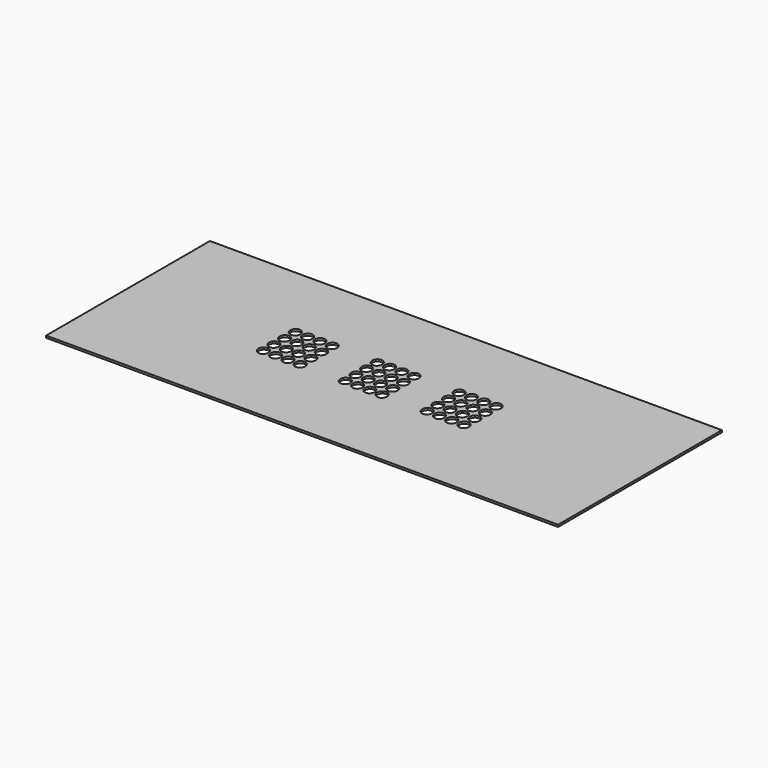
from build123d import *

# Parameters (mm, degrees)
F0_W     = 50
F0_H     = 20
F1_DEPTH = 0.2


with BuildPart() as f1:
    # F0 (on Top) → F1 (new body)
    with BuildSketch(Plane.XY):
        with Locations((25, -10)):
            Rectangle(F0_W, F0_H)
        with BuildLine():
            add(Edge.make_bspline(
                [(14.962654, -11.410392), (14.601403, -10.528918), (14.088047, -11.254067), (13.574692, -11.979215), (14.449298, -12.135541), (15.323905, -12.291867), (14.962654, -11.410392)],
                knots=[4.712389, 4.712389, 4.712389, 6.806784, 6.806784, 8.901179, 8.901179, 10.995574, 10.995574, 10.995574], degree=2, weights=[1, 0.5, 1, 0.5, 1, 0.5, 1]))
        make_face(mode=Mode.SUBTRACT)
        with BuildLine():
            add(Edge.make_bspline(
                [(16.162654, -11.410392), (15.801403, -10.528918), (15.288047, -11.254067), (14.774692, -11.979215), (15.649298, -12.135541), (16.523905, -12.291867), (16.162654, -11.410392)],
                knots=[4.712389, 4.712389, 4.712389, 6.806784, 6.806784, 8.901179, 8.901179, 10.995574, 10.995574, 10.995574], degree=2, weights=[1, 0.5, 1, 0.5, 1, 0.5, 1]))
        make_face(mode=Mode.SUBTRACT)
        with BuildLine():
            add(Edge.make_bspline(
                [(17.362654, -11.410392), (17.001403, -10.528918), (16.488047, -11.254067), (15.974692, -11.979215), (16.849298, -12.135541), (17.723905, -12.291867), (17.362654, -11.410392)],
                knots=[4.712389, 4.712389, 4.712389, 6.806784, 6.806784, 8.901179, 8.901179, 10.995574, 10.995574, 10.995574], degree=2, weights=[1, 0.5, 1, 0.5, 1, 0.5, 1]))
        make_face(mode=Mode.SUBTRACT)
        with BuildLine():
            add(Edge.make_bspline(
                [(18.562654, -11.410392), (18.201403, -10.528918), (17.688047, -11.254067), (17.174692, -11.979215), (18.049298, -12.135541), (18.923905, -12.291867), (18.562654, -11.410392)],
                knots=[4.712389, 4.712389, 4.712389, 6.806784, 6.806784, 8.901179, 8.901179, 10.995574, 10.995574, 10.995574], degree=2, weights=[1, 0.5, 1, 0.5, 1, 0.5, 1]))
        make_face(mode=Mode.SUBTRACT)
        with BuildLine():
            add(Edge.make_bspline(
                [(14.962654, -10.110392), (14.601403, -9.228918), (14.088047, -9.954067), (13.574692, -10.679215), (14.449298, -10.835541), (15.323905, -10.991867), (14.962654, -10.110392)],
                knots=[4.712389, 4.712389, 4.712389, 6.806784, 6.806784, 8.901179, 8.901179, 10.995574, 10.995574, 10.995574], degree=2, weights=[1, 0.5, 1, 0.5, 1, 0.5, 1]))
        make_face(mode=Mode.SUBTRACT)
        with BuildLine():
            add(Edge.make_bspline(
                [(16.162654, -10.110392), (15.801403, -9.228918), (15.288047, -9.954067), (14.774692, -10.679215), (15.649298, -10.835541), (16.523905, -10.991867), (16.162654, -10.110392)],
                knots=[4.712389, 4.712389, 4.712389, 6.806784, 6.806784, 8.901179, 8.901179, 10.995574, 10.995574, 10.995574], degree=2, weights=[1, 0.5, 1, 0.5, 1, 0.5, 1]))
        make_face(mode=Mode.SUBTRACT)
        with BuildLine():
            add(Edge.make_bspline(
                [(17.362654, -10.110392), (17.001403, -9.228918), (16.488047, -9.954067), (15.974692, -10.679215), (16.849298, -10.835541), (17.723905, -10.991867), (17.362654, -10.110392)],
                knots=[4.712389, 4.712389, 4.712389, 6.806784, 6.806784, 8.901179, 8.901179, 10.995574, 10.995574, 10.995574], degree=2, weights=[1, 0.5, 1, 0.5, 1, 0.5, 1]))
        make_face(mode=Mode.SUBTRACT)
        with BuildLine():
            add(Edge.make_bspline(
                [(18.562654, -10.110392), (18.201403, -9.228918), (17.688047, -9.954067), (17.174692, -10.679215), (18.049298, -10.835541), (18.923905, -10.991867), (18.562654, -10.110392)],
                knots=[4.712389, 4.712389, 4.712389, 6.806784, 6.806784, 8.901179, 8.901179, 10.995574, 10.995574, 10.995574], degree=2, weights=[1, 0.5, 1, 0.5, 1, 0.5, 1]))
        make_face(mode=Mode.SUBTRACT)
        with BuildLine():
            add(Edge.make_bspline(
                [(22.962654, -11.410392), (22.601403, -10.528918), (22.088047, -11.254067), (21.574692, -11.979215), (22.449298, -12.135541), (23.323905, -12.291867), (22.962654, -11.410392)],
                knots=[4.712389, 4.712389, 4.712389, 6.806784, 6.806784, 8.901179, 8.901179, 10.995574, 10.995574, 10.995574], degree=2, weights=[1, 0.5, 1, 0.5, 1, 0.5, 1]))
        make_face(mode=Mode.SUBTRACT)
        with BuildLine():
            add(Edge.make_bspline(
                [(24.162654, -11.410392), (23.801403, -10.528918), (23.288047, -11.254067), (22.774692, -11.979215), (23.649298, -12.135541), (24.523905, -12.291867), (24.162654, -11.410392)],
                knots=[4.712389, 4.712389, 4.712389, 6.806784, 6.806784, 8.901179, 8.901179, 10.995574, 10.995574, 10.995574], degree=2, weights=[1, 0.5, 1, 0.5, 1, 0.5, 1]))
        make_face(mode=Mode.SUBTRACT)
        with BuildLine():
            add(Edge.make_bspline(
                [(25.362654, -11.410392), (25.001403, -10.528918), (24.488047, -11.254067), (23.974692, -11.979215), (24.849298, -12.135541), (25.723905, -12.291867), (25.362654, -11.410392)],
                knots=[4.712389, 4.712389, 4.712389, 6.806784, 6.806784, 8.901179, 8.901179, 10.995574, 10.995574, 10.995574], degree=2, weights=[1, 0.5, 1, 0.5, 1, 0.5, 1]))
        make_face(mode=Mode.SUBTRACT)
        with BuildLine():
            add(Edge.make_bspline(
                [(22.962654, -10.110392), (22.601403, -9.228918), (22.088047, -9.954067), (21.574692, -10.679215), (22.449298, -10.835541), (23.323905, -10.991867), (22.962654, -10.110392)],
                knots=[4.712389, 4.712389, 4.712389, 6.806784, 6.806784, 8.901179, 8.901179, 10.995574, 10.995574, 10.995574], degree=2, weights=[1, 0.5, 1, 0.5, 1, 0.5, 1]))
        make_face(mode=Mode.SUBTRACT)
        with BuildLine():
            add(Edge.make_bspline(
                [(24.162654, -10.110392), (23.801403, -9.228918), (23.288047, -9.954067), (22.774692, -10.679215), (23.649298, -10.835541), (24.523905, -10.991867), (24.162654, -10.110392)],
                knots=[4.712389, 4.712389, 4.712389, 6.806784, 6.806784, 8.901179, 8.901179, 10.995574, 10.995574, 10.995574], degree=2, weights=[1, 0.5, 1, 0.5, 1, 0.5, 1]))
        make_face(mode=Mode.SUBTRACT)
        with BuildLine():
            add(Edge.make_bspline(
                [(25.362654, -10.110392), (25.001403, -9.228918), (24.488047, -9.954067), (23.974692, -10.679215), (24.849298, -10.835541), (25.723905, -10.991867), (25.362654, -10.110392)],
                knots=[4.712389, 4.712389, 4.712389, 6.806784, 6.806784, 8.901179, 8.901179, 10.995574, 10.995574, 10.995574], degree=2, weights=[1, 0.5, 1, 0.5, 1, 0.5, 1]))
        make_face(mode=Mode.SUBTRACT)
        with BuildLine():
            add(Edge.make_bspline(
                [(26.562654, -11.410392), (26.201403, -10.528918), (25.688047, -11.254067), (25.174692, -11.979215), (26.049298, -12.135541), (26.923905, -12.291867), (26.562654, -11.410392)],
                knots=[4.712389, 4.712389, 4.712389, 6.806784, 6.806784, 8.901179, 8.901179, 10.995574, 10.995574, 10.995574], degree=2, weights=[1, 0.5, 1, 0.5, 1, 0.5, 1]))
        make_face(mode=Mode.SUBTRACT)
        with BuildLine():
            add(Edge.make_bspline(
                [(30.962654, -11.410392), (30.601403, -10.528918), (30.088047, -11.254067), (29.574692, -11.979215), (30.449298, -12.135541), (31.323905, -12.291867), (30.962654, -11.410392)],
                knots=[4.712389, 4.712389, 4.712389, 6.806784, 6.806784, 8.901179, 8.901179, 10.995574, 10.995574, 10.995574], degree=2, weights=[1, 0.5, 1, 0.5, 1, 0.5, 1]))
        make_face(mode=Mode.SUBTRACT)
        with BuildLine():
            add(Edge.make_bspline(
                [(26.562654, -10.110392), (26.201403, -9.228918), (25.688047, -9.954067), (25.174692, -10.679215), (26.049298, -10.835541), (26.923905, -10.991867), (26.562654, -10.110392)],
                knots=[4.712389, 4.712389, 4.712389, 6.806784, 6.806784, 8.901179, 8.901179, 10.995574, 10.995574, 10.995574], degree=2, weights=[1, 0.5, 1, 0.5, 1, 0.5, 1]))
        make_face(mode=Mode.SUBTRACT)
        with BuildLine():
            add(Edge.make_bspline(
                [(30.962654, -10.110392), (30.601403, -9.228918), (30.088047, -9.954067), (29.574692, -10.679215), (30.449298, -10.835541), (31.323905, -10.991867), (30.962654, -10.110392)],
                knots=[4.712389, 4.712389, 4.712389, 6.806784, 6.806784, 8.901179, 8.901179, 10.995574, 10.995574, 10.995574], degree=2, weights=[1, 0.5, 1, 0.5, 1, 0.5, 1]))
        make_face(mode=Mode.SUBTRACT)
        with BuildLine():
            add(Edge.make_bspline(
                [(32.162654, -11.410392), (31.801403, -10.528918), (31.288047, -11.254067), (30.774692, -11.979215), (31.649298, -12.135541), (32.523905, -12.291867), (32.162654, -11.410392)],
                knots=[4.712389, 4.712389, 4.712389, 6.806784, 6.806784, 8.901179, 8.901179, 10.995574, 10.995574, 10.995574], degree=2, weights=[1, 0.5, 1, 0.5, 1, 0.5, 1]))
        make_face(mode=Mode.SUBTRACT)
        with BuildLine():
            add(Edge.make_bspline(
                [(33.362654, -11.410392), (33.001403, -10.528918), (32.488047, -11.254067), (31.974692, -11.979215), (32.849298, -12.135541), (33.723905, -12.291867), (33.362654, -11.410392)],
                knots=[4.712389, 4.712389, 4.712389, 6.806784, 6.806784, 8.901179, 8.901179, 10.995574, 10.995574, 10.995574], degree=2, weights=[1, 0.5, 1, 0.5, 1, 0.5, 1]))
        make_face(mode=Mode.SUBTRACT)
        with BuildLine():
            add(Edge.make_bspline(
                [(34.562654, -11.410392), (34.201403, -10.528918), (33.688047, -11.254067), (33.174692, -11.979215), (34.049298, -12.135541), (34.923905, -12.291867), (34.562654, -11.410392)],
                knots=[4.712389, 4.712389, 4.712389, 6.806784, 6.806784, 8.901179, 8.901179, 10.995574, 10.995574, 10.995574], degree=2, weights=[1, 0.5, 1, 0.5, 1, 0.5, 1]))
        make_face(mode=Mode.SUBTRACT)
        with BuildLine():
            add(Edge.make_bspline(
                [(32.162654, -10.110392), (31.801403, -9.228918), (31.288047, -9.954067), (30.774692, -10.679215), (31.649298, -10.835541), (32.523905, -10.991867), (32.162654, -10.110392)],
                knots=[4.712389, 4.712389, 4.712389, 6.806784, 6.806784, 8.901179, 8.901179, 10.995574, 10.995574, 10.995574], degree=2, weights=[1, 0.5, 1, 0.5, 1, 0.5, 1]))
        make_face(mode=Mode.SUBTRACT)
        with BuildLine():
            add(Edge.make_bspline(
                [(33.362654, -10.110392), (33.001403, -9.228918), (32.488047, -9.954067), (31.974692, -10.679215), (32.849298, -10.835541), (33.723905, -10.991867), (33.362654, -10.110392)],
                knots=[4.712389, 4.712389, 4.712389, 6.806784, 6.806784, 8.901179, 8.901179, 10.995574, 10.995574, 10.995574], degree=2, weights=[1, 0.5, 1, 0.5, 1, 0.5, 1]))
        make_face(mode=Mode.SUBTRACT)
        with BuildLine():
            add(Edge.make_bspline(
                [(34.562654, -10.110392), (34.201403, -9.228918), (33.688047, -9.954067), (33.174692, -10.679215), (34.049298, -10.835541), (34.923905, -10.991867), (34.562654, -10.110392)],
                knots=[4.712389, 4.712389, 4.712389, 6.806784, 6.806784, 8.901179, 8.901179, 10.995574, 10.995574, 10.995574], degree=2, weights=[1, 0.5, 1, 0.5, 1, 0.5, 1]))
        make_face(mode=Mode.SUBTRACT)
        with BuildLine():
            add(Edge.make_bspline(
                [(14.962654, -8.810392), (14.601403, -7.928918), (14.088047, -8.654067), (13.574692, -9.379215), (14.449298, -9.535541), (15.323905, -9.691867), (14.962654, -8.810392)],
                knots=[4.712389, 4.712389, 4.712389, 6.806784, 6.806784, 8.901179, 8.901179, 10.995574, 10.995574, 10.995574], degree=2, weights=[1, 0.5, 1, 0.5, 1, 0.5, 1]))
        make_face(mode=Mode.SUBTRACT)
        with BuildLine():
            add(Edge.make_bspline(
                [(16.162654, -8.810392), (15.801403, -7.928918), (15.288047, -8.654067), (14.774692, -9.379215), (15.649298, -9.535541), (16.523905, -9.691867), (16.162654, -8.810392)],
                knots=[4.712389, 4.712389, 4.712389, 6.806784, 6.806784, 8.901179, 8.901179, 10.995574, 10.995574, 10.995574], degree=2, weights=[1, 0.5, 1, 0.5, 1, 0.5, 1]))
        make_face(mode=Mode.SUBTRACT)
        with BuildLine():
            add(Edge.make_bspline(
                [(17.362654, -8.810392), (17.001403, -7.928918), (16.488047, -8.654067), (15.974692, -9.379215), (16.849298, -9.535541), (17.723905, -9.691867), (17.362654, -8.810392)],
                knots=[4.712389, 4.712389, 4.712389, 6.806784, 6.806784, 8.901179, 8.901179, 10.995574, 10.995574, 10.995574], degree=2, weights=[1, 0.5, 1, 0.5, 1, 0.5, 1]))
        make_face(mode=Mode.SUBTRACT)
        with BuildLine():
            add(Edge.make_bspline(
                [(18.562654, -8.810392), (18.201403, -7.928918), (17.688047, -8.654067), (17.174692, -9.379215), (18.049298, -9.535541), (18.923905, -9.691867), (18.562654, -8.810392)],
                knots=[4.712389, 4.712389, 4.712389, 6.806784, 6.806784, 8.901179, 8.901179, 10.995574, 10.995574, 10.995574], degree=2, weights=[1, 0.5, 1, 0.5, 1, 0.5, 1]))
        make_face(mode=Mode.SUBTRACT)
        with BuildLine():
            add(Edge.make_bspline(
                [(14.962654, -7.510392), (14.601403, -6.628918), (14.088047, -7.354067), (13.574692, -8.079215), (14.449298, -8.235541), (15.323905, -8.391867), (14.962654, -7.510392)],
                knots=[4.712389, 4.712389, 4.712389, 6.806784, 6.806784, 8.901179, 8.901179, 10.995574, 10.995574, 10.995574], degree=2, weights=[1, 0.5, 1, 0.5, 1, 0.5, 1]))
        make_face(mode=Mode.SUBTRACT)
        with BuildLine():
            add(Edge.make_bspline(
                [(16.162654, -7.510392), (15.801403, -6.628918), (15.288047, -7.354067), (14.774692, -8.079215), (15.649298, -8.235541), (16.523905, -8.391867), (16.162654, -7.510392)],
                knots=[4.712389, 4.712389, 4.712389, 6.806784, 6.806784, 8.901179, 8.901179, 10.995574, 10.995574, 10.995574], degree=2, weights=[1, 0.5, 1, 0.5, 1, 0.5, 1]))
        make_face(mode=Mode.SUBTRACT)
        with BuildLine():
            add(Edge.make_bspline(
                [(17.362654, -7.510392), (17.001403, -6.628918), (16.488047, -7.354067), (15.974692, -8.079215), (16.849298, -8.235541), (17.723905, -8.391867), (17.362654, -7.510392)],
                knots=[4.712389, 4.712389, 4.712389, 6.806784, 6.806784, 8.901179, 8.901179, 10.995574, 10.995574, 10.995574], degree=2, weights=[1, 0.5, 1, 0.5, 1, 0.5, 1]))
        make_face(mode=Mode.SUBTRACT)
        with BuildLine():
            add(Edge.make_bspline(
                [(18.562654, -7.510392), (18.201403, -6.628918), (17.688047, -7.354067), (17.174692, -8.079215), (18.049298, -8.235541), (18.923905, -8.391867), (18.562654, -7.510392)],
                knots=[4.712389, 4.712389, 4.712389, 6.806784, 6.806784, 8.901179, 8.901179, 10.995574, 10.995574, 10.995574], degree=2, weights=[1, 0.5, 1, 0.5, 1, 0.5, 1]))
        make_face(mode=Mode.SUBTRACT)
        with BuildLine():
            add(Edge.make_bspline(
                [(22.962654, -8.810392), (22.601403, -7.928918), (22.088047, -8.654067), (21.574692, -9.379215), (22.449298, -9.535541), (23.323905, -9.691867), (22.962654, -8.810392)],
                knots=[4.712389, 4.712389, 4.712389, 6.806784, 6.806784, 8.901179, 8.901179, 10.995574, 10.995574, 10.995574], degree=2, weights=[1, 0.5, 1, 0.5, 1, 0.5, 1]))
        make_face(mode=Mode.SUBTRACT)
        with BuildLine():
            add(Edge.make_bspline(
                [(24.162654, -8.810392), (23.801403, -7.928918), (23.288047, -8.654067), (22.774692, -9.379215), (23.649298, -9.535541), (24.523905, -9.691867), (24.162654, -8.810392)],
                knots=[4.712389, 4.712389, 4.712389, 6.806784, 6.806784, 8.901179, 8.901179, 10.995574, 10.995574, 10.995574], degree=2, weights=[1, 0.5, 1, 0.5, 1, 0.5, 1]))
        make_face(mode=Mode.SUBTRACT)
        with BuildLine():
            add(Edge.make_bspline(
                [(25.362654, -8.810392), (25.001403, -7.928918), (24.488047, -8.654067), (23.974692, -9.379215), (24.849298, -9.535541), (25.723905, -9.691867), (25.362654, -8.810392)],
                knots=[4.712389, 4.712389, 4.712389, 6.806784, 6.806784, 8.901179, 8.901179, 10.995574, 10.995574, 10.995574], degree=2, weights=[1, 0.5, 1, 0.5, 1, 0.5, 1]))
        make_face(mode=Mode.SUBTRACT)
        with BuildLine():
            add(Edge.make_bspline(
                [(22.962654, -7.510392), (22.601403, -6.628918), (22.088047, -7.354067), (21.574692, -8.079215), (22.449298, -8.235541), (23.323905, -8.391867), (22.962654, -7.510392)],
                knots=[4.712389, 4.712389, 4.712389, 6.806784, 6.806784, 8.901179, 8.901179, 10.995574, 10.995574, 10.995574], degree=2, weights=[1, 0.5, 1, 0.5, 1, 0.5, 1]))
        make_face(mode=Mode.SUBTRACT)
        with BuildLine():
            add(Edge.make_bspline(
                [(24.162654, -7.510392), (23.801403, -6.628918), (23.288047, -7.354067), (22.774692, -8.079215), (23.649298, -8.235541), (24.523905, -8.391867), (24.162654, -7.510392)],
                knots=[4.712389, 4.712389, 4.712389, 6.806784, 6.806784, 8.901179, 8.901179, 10.995574, 10.995574, 10.995574], degree=2, weights=[1, 0.5, 1, 0.5, 1, 0.5, 1]))
        make_face(mode=Mode.SUBTRACT)
        with BuildLine():
            add(Edge.make_bspline(
                [(25.362654, -7.510392), (25.001403, -6.628918), (24.488047, -7.354067), (23.974692, -8.079215), (24.849298, -8.235541), (25.723905, -8.391867), (25.362654, -7.510392)],
                knots=[4.712389, 4.712389, 4.712389, 6.806784, 6.806784, 8.901179, 8.901179, 10.995574, 10.995574, 10.995574], degree=2, weights=[1, 0.5, 1, 0.5, 1, 0.5, 1]))
        make_face(mode=Mode.SUBTRACT)
        with BuildLine():
            add(Edge.make_bspline(
                [(26.562654, -8.810392), (26.201403, -7.928918), (25.688047, -8.654067), (25.174692, -9.379215), (26.049298, -9.535541), (26.923905, -9.691867), (26.562654, -8.810392)],
                knots=[4.712389, 4.712389, 4.712389, 6.806784, 6.806784, 8.901179, 8.901179, 10.995574, 10.995574, 10.995574], degree=2, weights=[1, 0.5, 1, 0.5, 1, 0.5, 1]))
        make_face(mode=Mode.SUBTRACT)
        with BuildLine():
            add(Edge.make_bspline(
                [(30.962654, -8.810392), (30.601403, -7.928918), (30.088047, -8.654067), (29.574692, -9.379215), (30.449298, -9.535541), (31.323905, -9.691867), (30.962654, -8.810392)],
                knots=[4.712389, 4.712389, 4.712389, 6.806784, 6.806784, 8.901179, 8.901179, 10.995574, 10.995574, 10.995574], degree=2, weights=[1, 0.5, 1, 0.5, 1, 0.5, 1]))
        make_face(mode=Mode.SUBTRACT)
        with BuildLine():
            add(Edge.make_bspline(
                [(26.562654, -7.510392), (26.201403, -6.628918), (25.688047, -7.354067), (25.174692, -8.079215), (26.049298, -8.235541), (26.923905, -8.391867), (26.562654, -7.510392)],
                knots=[4.712389, 4.712389, 4.712389, 6.806784, 6.806784, 8.901179, 8.901179, 10.995574, 10.995574, 10.995574], degree=2, weights=[1, 0.5, 1, 0.5, 1, 0.5, 1]))
        make_face(mode=Mode.SUBTRACT)
        with BuildLine():
            add(Edge.make_bspline(
                [(30.962654, -7.510392), (30.601403, -6.628918), (30.088047, -7.354067), (29.574692, -8.079215), (30.449298, -8.235541), (31.323905, -8.391867), (30.962654, -7.510392)],
                knots=[4.712389, 4.712389, 4.712389, 6.806784, 6.806784, 8.901179, 8.901179, 10.995574, 10.995574, 10.995574], degree=2, weights=[1, 0.5, 1, 0.5, 1, 0.5, 1]))
        make_face(mode=Mode.SUBTRACT)
        with BuildLine():
            add(Edge.make_bspline(
                [(32.162654, -8.810392), (31.801403, -7.928918), (31.288047, -8.654067), (30.774692, -9.379215), (31.649298, -9.535541), (32.523905, -9.691867), (32.162654, -8.810392)],
                knots=[4.712389, 4.712389, 4.712389, 6.806784, 6.806784, 8.901179, 8.901179, 10.995574, 10.995574, 10.995574], degree=2, weights=[1, 0.5, 1, 0.5, 1, 0.5, 1]))
        make_face(mode=Mode.SUBTRACT)
        with BuildLine():
            add(Edge.make_bspline(
                [(33.362654, -8.810392), (33.001403, -7.928918), (32.488047, -8.654067), (31.974692, -9.379215), (32.849298, -9.535541), (33.723905, -9.691867), (33.362654, -8.810392)],
                knots=[4.712389, 4.712389, 4.712389, 6.806784, 6.806784, 8.901179, 8.901179, 10.995574, 10.995574, 10.995574], degree=2, weights=[1, 0.5, 1, 0.5, 1, 0.5, 1]))
        make_face(mode=Mode.SUBTRACT)
        with BuildLine():
            add(Edge.make_bspline(
                [(34.562654, -8.810392), (34.201403, -7.928918), (33.688047, -8.654067), (33.174692, -9.379215), (34.049298, -9.535541), (34.923905, -9.691867), (34.562654, -8.810392)],
                knots=[4.712389, 4.712389, 4.712389, 6.806784, 6.806784, 8.901179, 8.901179, 10.995574, 10.995574, 10.995574], degree=2, weights=[1, 0.5, 1, 0.5, 1, 0.5, 1]))
        make_face(mode=Mode.SUBTRACT)
        with BuildLine():
            add(Edge.make_bspline(
                [(32.162654, -7.510392), (31.801403, -6.628918), (31.288047, -7.354067), (30.774692, -8.079215), (31.649298, -8.235541), (32.523905, -8.391867), (32.162654, -7.510392)],
                knots=[4.712389, 4.712389, 4.712389, 6.806784, 6.806784, 8.901179, 8.901179, 10.995574, 10.995574, 10.995574], degree=2, weights=[1, 0.5, 1, 0.5, 1, 0.5, 1]))
        make_face(mode=Mode.SUBTRACT)
        with BuildLine():
            add(Edge.make_bspline(
                [(33.362654, -7.510392), (33.001403, -6.628918), (32.488047, -7.354067), (31.974692, -8.079215), (32.849298, -8.235541), (33.723905, -8.391867), (33.362654, -7.510392)],
                knots=[4.712389, 4.712389, 4.712389, 6.806784, 6.806784, 8.901179, 8.901179, 10.995574, 10.995574, 10.995574], degree=2, weights=[1, 0.5, 1, 0.5, 1, 0.5, 1]))
        make_face(mode=Mode.SUBTRACT)
        with BuildLine():
            add(Edge.make_bspline(
                [(34.562654, -7.510392), (34.201403, -6.628918), (33.688047, -7.354067), (33.174692, -8.079215), (34.049298, -8.235541), (34.923905, -8.391867), (34.562654, -7.510392)],
                knots=[4.712389, 4.712389, 4.712389, 6.806784, 6.806784, 8.901179, 8.901179, 10.995574, 10.995574, 10.995574], degree=2, weights=[1, 0.5, 1, 0.5, 1, 0.5, 1]))
        make_face(mode=Mode.SUBTRACT)
    extrude(amount=F1_DEPTH)


solid = f1.part
